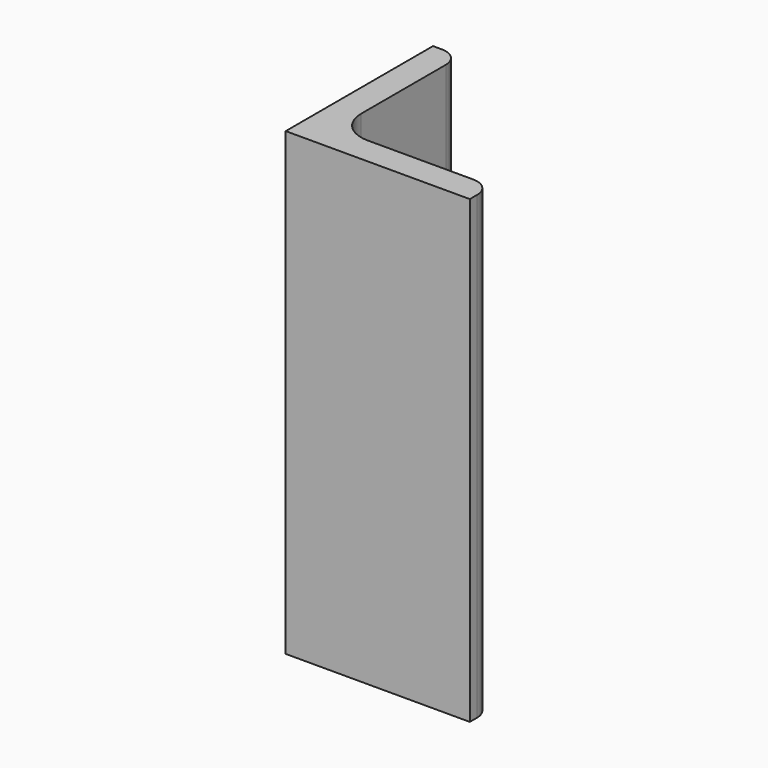
from build123d import *

# Parameters (mm, degrees)
EXTRUDE_DEPTH = 50


with BuildPart() as part:
    # Sketch → Extrude (new body)
    with BuildSketch(Plane.XY):
        with BuildLine():
            Line((0, 0), (20, 0))
            Line((20, 0), (20, 1))
            ThreePointArc((20, 1), (19.414214, 2.414214), (18, 3))
            Line((18, 3), (6.5, 3))
            ThreePointArc((3, 6.5), (4.025126, 4.025126), (6.5, 3))
            Line((3, 18), (3, 6.5))
            ThreePointArc((3, 18), (2.414214, 19.414214), (1, 20))
            Line((0, 20), (1, 20))
            Line((0, 0), (0, 20))
        make_face()
    extrude(amount=EXTRUDE_DEPTH)


solid = part.part
